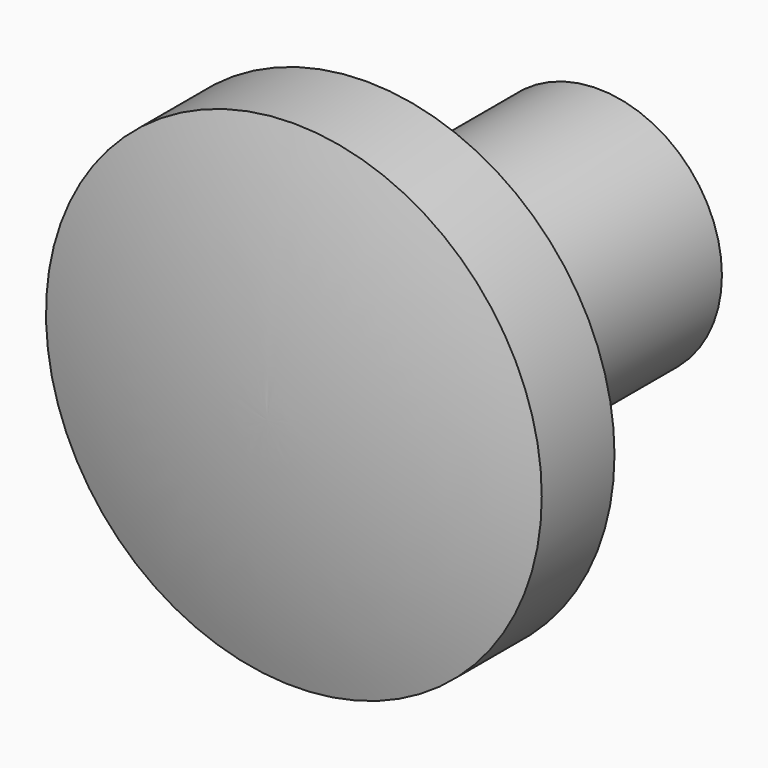
from build123d import *

# Parameters (mm, degrees)
F0_R     = 15
F1_DEPTH = 28
F4_R     = 30
F5_DEPTH = 11


with BuildPart() as f1:
    # F0 (on Front) → F1 (new body)
    with BuildSketch(Plane.XZ):
        Circle(F0_R)
    extrude(amount=F1_DEPTH)

    # F2 (on Right) → F3 (revolve)
    with BuildSketch(Plane.YZ):
        Polygon((-35, 0), (-28, 0), (-28, 15), (-35, 30), align=None)
    revolve(axis=Axis((0, -31.5, 0), (0, 1, 0)))

    # F4 (on face) → F5 (join)
    with BuildSketch(Plane.XZ.offset(35)):
        Circle(F4_R)
    extrude(amount=F5_DEPTH)

    # F6 (on Right) → F7 (revolve)
    with BuildSketch(Plane.YZ):
        with BuildLine():
            Line((-50, 0), (-46, 0))
            Line((-46, 0), (-46, 30))
            ThreePointArc((-46, 30), (-48.995595, 15.132746), (-50, 0))
        make_face()
    revolve(axis=Axis((0, -48, 0), (0, 1, 0)))


solid = f1.part
